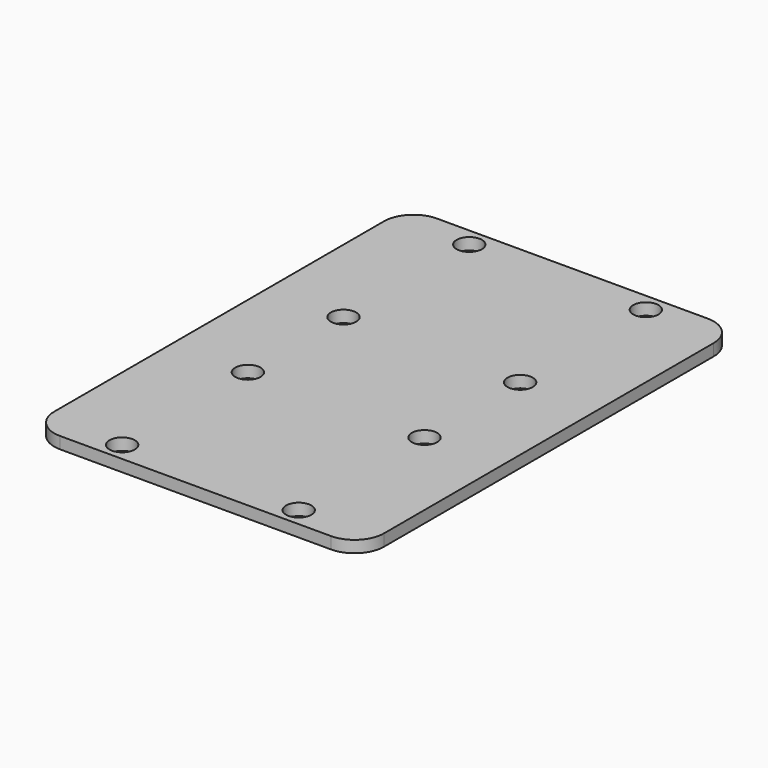
from build123d import *

# Parameters (mm, degrees)
F0_R     = 2.15
F1_DEPTH = 2


with BuildPart() as f1:
    # F0 (on Top) → F1 (new body)
    with BuildSketch(Plane.XY):
        with BuildLine():
            ThreePointArc((28, 35), (26.535534, 38.535534), (23, 40))
            Line((23, 40), (-23, 40))
            ThreePointArc((-23, 40), (-26.535534, 38.535534), (-28, 35))
            Line((-28, 35), (-28, -35))
            ThreePointArc((-28, -35), (-26.535534, -38.535534), (-23, -40))
            Line((-23, -40), (23, -40))
            ThreePointArc((23, -40), (26.535534, -38.535534), (28, -35))
            Line((28, -35), (28, 35))
        make_face()
        with Locations((-15, -36.85)):
            Circle(F0_R, mode=Mode.SUBTRACT)
        with Locations((-15, -10.15)):
            Circle(F0_R, mode=Mode.SUBTRACT)
        with Locations((15, -36.85)):
            Circle(F0_R, mode=Mode.SUBTRACT)
        with Locations((15, -10.15)):
            Circle(F0_R, mode=Mode.SUBTRACT)
        with Locations((-15, 10.15)):
            Circle(F0_R, mode=Mode.SUBTRACT)
        with Locations((-15, 36.85)):
            Circle(F0_R, mode=Mode.SUBTRACT)
        with Locations((15, 10.15)):
            Circle(F0_R, mode=Mode.SUBTRACT)
        with Locations((15, 36.85)):
            Circle(F0_R, mode=Mode.SUBTRACT)
    extrude(amount=F1_DEPTH)


solid = f1.part
